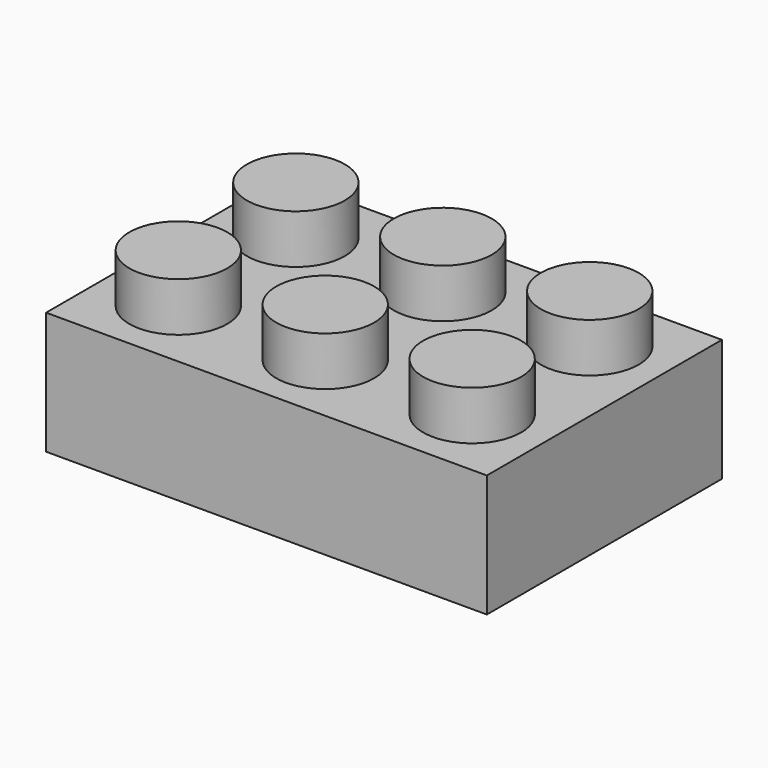
from build123d import *

# Parameters (mm, degrees)
F0_W     = 90
F0_H     = 60
F1_DEPTH = 25
F2_R     = 10
F3_DEPTH = 10


with BuildPart() as f1:
    # F0 (on Top) → F1 (new body)
    with BuildSketch(Plane.XY):
        with Locations((6.104721, -0.658602)):
            Rectangle(F0_W, F0_H)
    extrude(amount=F1_DEPTH)

    # F2 (on face) → F3 (join)
    with BuildSketch(Plane.XY.offset(25)):
        with Locations((-23.895279, 14.341398)):
            Circle(F2_R)
        with Locations((6.104721, 14.341398)):
            Circle(F2_R)
        with Locations((36.104721, 14.341398)):
            Circle(F2_R)
        with Locations((36.104721, -15.658602)):
            Circle(F2_R)
        with Locations((6.104721, -15.658602)):
            Circle(F2_R)
        with Locations((-23.895279, -15.658602)):
            Circle(F2_R)
    extrude(amount=F3_DEPTH)


solid = f1.part
